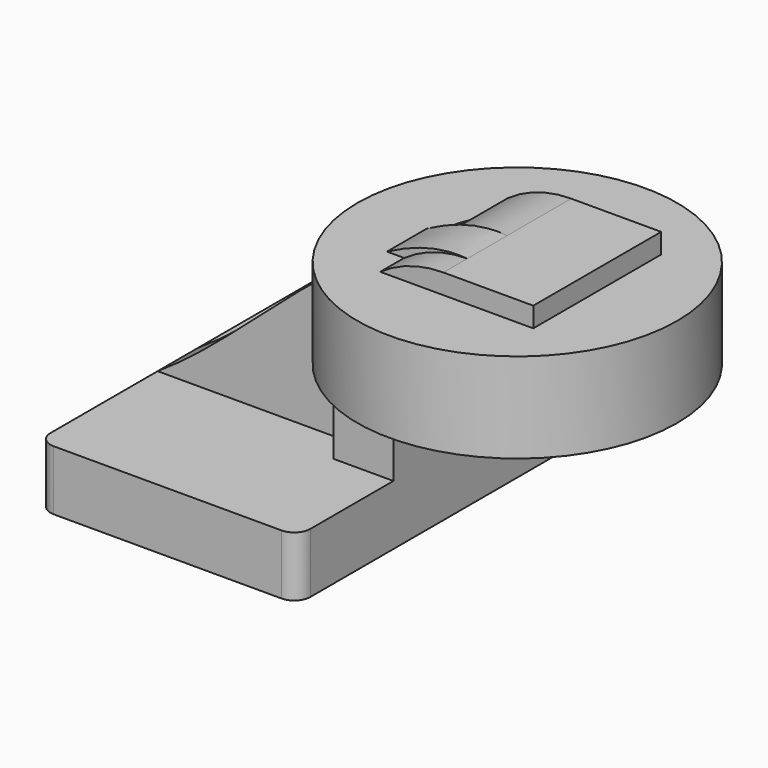
from build123d import *

# Parameters (mm, degrees)
F1_DEPTH = 63.5
F0_W     = 25.4
F0_H     = 12.7
F2_DEPTH = 25.4
F3_DEPTH = 15.875
F5_R     = 5.08


with BuildPart() as f1:
    # F0 (on Front) → F1 (new body, symmetric)
    with BuildSketch(Plane.XZ):
        Polygon((-41.275, -9.525), (41.275, -9.525), (41.275, 9.525), (22.225, 9.525), (-41.275, 9.525), align=None)
    extrude(amount=F1_DEPTH, both=True)

    # F0 (on Front) → F2 (join, symmetric)
    with BuildSketch(Plane.XZ):
        with BuildLine():
            Line((22.225, 9.525), (41.275, 9.525))
            Line((41.275, 9.525), (41.275, 38.1))
            ThreePointArc((41.275, 38.1), (45.92468, 49.32532), (57.15, 53.975))
            Line((57.15, 53.975), (60.325, 53.975))
            Line((60.325, 53.975), (60.325, 66.675))
            Line((60.325, 66.675), (85.725, 66.675))
            Line((85.725, 66.675), (85.725, 73.025))
            Line((85.725, 73.025), (57.15, 73.025))
            ThreePointArc((57.15, 73.025), (32.454296, 62.795704), (22.225, 38.1))
            Line((22.225, 38.1), (22.225, 9.525))
        make_face()
        with Locations((73.025, 60.325)):
            Rectangle(F0_W, F0_H)
    extrude(amount=F2_DEPTH, both=True)

    # F0 (on Front) → F3 (join)
    with BuildSketch(Plane.XZ):
        with BuildLine():
            add(Edge.make_bspline(
                [(-41.275, 9.525), (-8.466667, 30.691667), (25.044836, 75.964727), (57.15, 73.025)],
                knots=[0, 0, 0, 0, 117.131254, 117.131254, 117.131254, 117.131254], degree=3))
            Line((-41.275, 9.525), (22.225, 9.525))
            Line((22.225, 9.525), (22.225, 38.1))
            ThreePointArc((22.225, 38.1), (32.454296, 62.795704), (57.15, 73.025))
        make_face()
    extrude(amount=F3_DEPTH)

    # F0 (on Front) → F4 (revolve)
    with BuildSketch(Plane.XZ):
        Polygon((85.725, 53.975), (60.325, 53.975), (60.325, 38.1), (111.125, 38.1), (111.125, 66.675), (85.725, 66.675), align=None)
    revolve(axis=Axis((60.325, 0, 52.3875), (0, 0, 1)))

    # F5
    f5_edges = [f1.edges().sort_by_distance(p)[0] for p in [
        (41.275, -63.5, 0),
        (-41.275, -63.5, 0),
        (41.275, 63.5, 0),
        (-41.275, 63.5, 0),
    ]]
    fillet(f5_edges, radius=F5_R)


solid = f1.part
